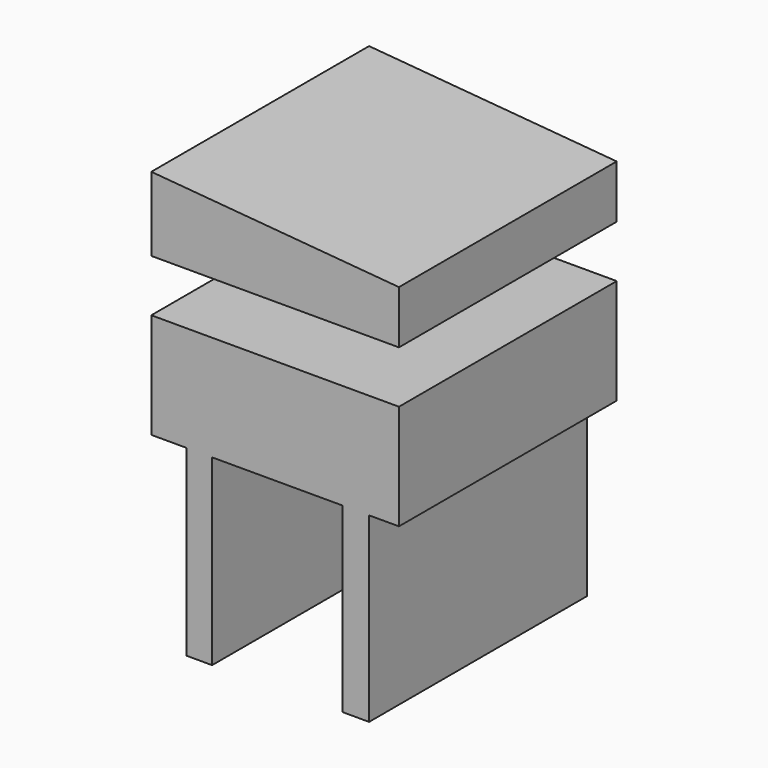
from build123d import *

# Parameters (mm, degrees)
F1_DEPTH = 76.2
F0_W     = 7.118877
F0_H     = 51.224969
F2_DEPTH = 76.2
F0_W_2   = 7.428395
F0_H_2   = 50.915454
F3_DEPTH = 76.2


with BuildPart() as f1:
    # F0 (on Front) → F1 (new body)
    with BuildSketch(Plane.XZ):
        Polygon((-75.522013, 64.843699), (-75.522013, 44.106092), (-6.19033, 44.106092), (-6.19033, 58.962882), align=None)
        Polygon((-75.522013, 0), (-65.617487, 0), (-58.49861, 0), (-21.975668, 0), (-14.547273, 0), (-6.19033, 0), (-6.19033, 29.481441), (-75.522013, 29.481441), align=None)
    extrude(amount=F1_DEPTH)

    # F0 (on Front) → F2 (join)
    with BuildSketch(Plane.XZ):
        with Locations((-62.058048, -25.612484)):
            Rectangle(F0_W, F0_H)
    extrude(amount=F2_DEPTH)

    # F0 (on Front) → F3 (join)
    with BuildSketch(Plane.XZ):
        with Locations((-18.26147, -25.457727)):
            Rectangle(F0_W_2, F0_H_2)
    extrude(amount=F3_DEPTH)


solid = f1.part
